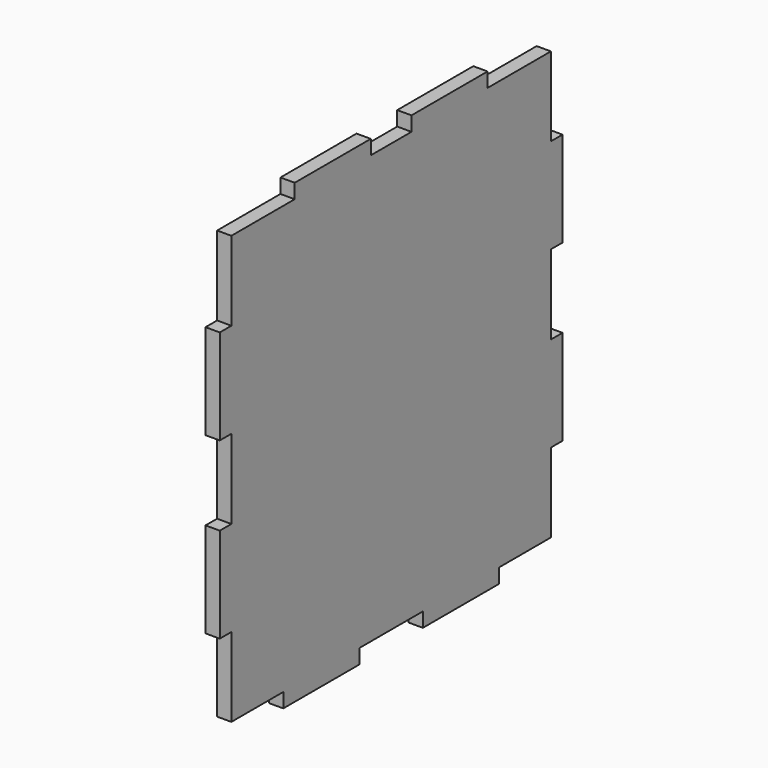
from build123d import *

# Parameters (mm, degrees)
F0_W     = 3.05
F0_H     = 20
F0_W_2   = 20
F0_H_2   = 3.05
F1_DEPTH = 3


with BuildPart() as f1:
    # F0 (on Right) → F1 (new body)
    with BuildSketch(Plane.YZ):
        Polygon((28.35, -45), (42, -45), (42, -28.35), (42, -8.35), (42, 8.35), (42, 28.35), (42, 45), (25.35, 45), (5.35, 45), (-5.35, 45), (-25.35, 45), (-42, 45), (-42, 28.35), (-42, 8.35), (-42, -8.35), (-42, -28.35), (-42, -45), (-28.35, -45), (-8.35, -45), (8.35, -45), align=None)
        with Locations((-43.525, 18.35)):
            Rectangle(F0_W, F0_H)
        with Locations((-43.525, -18.35)):
            Rectangle(F0_W, F0_H)
        with Locations((-18.35, -46.525)):
            Rectangle(F0_W_2, F0_H_2)
        with Locations((18.35, -46.525)):
            Rectangle(F0_W_2, F0_H_2)
        with Locations((43.525, -18.35)):
            Rectangle(F0_W, F0_H)
        with Locations((43.525, 18.35)):
            Rectangle(F0_W, F0_H)
        with Locations((15.35, 46.525)):
            Rectangle(F0_W_2, F0_H_2)
        with Locations((-15.35, 46.525)):
            Rectangle(F0_W_2, F0_H_2)
    extrude(amount=F1_DEPTH)


solid = f1.part
